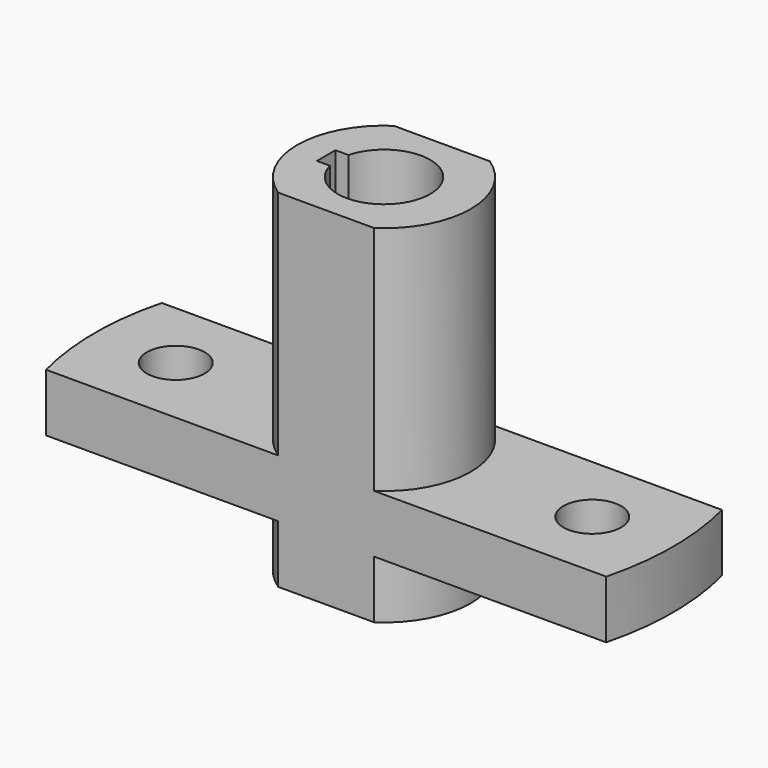
from build123d import *

# Parameters (mm, degrees)
F1_DEPTH = 50
F2_DEPTH = 10
F0_R     = 5
F3_DEPTH = 10


with BuildPart() as f1:
    # F0 (on Top) → F1 (new body)
    with BuildSketch(Plane.XY):
        with BuildLine():
            Line((8.291562, 12.5), (0, 12.5))
            Line((0, 12.5), (-8.291562, 12.5))
            ThreePointArc((-8.291562, 12.5), (-15, 0), (-8.291562, -12.5))
            Line((-8.291562, -12.5), (0, -12.5))
            Line((0, -12.5), (8.291562, -12.5))
            ThreePointArc((8.291562, -12.5), (15, 0), (8.291562, 12.5))
        make_face()
        with BuildLine():
            ThreePointArc((-7.745967, 2), (8, 0), (-7.745967, -2))
            Line((-7.745967, -2), (-10, -2))
            Line((-10, -2), (-10, 2))
            Line((-10, 2), (-7.745967, 2))
        make_face(mode=Mode.SUBTRACT)
    extrude(amount=F1_DEPTH)

    # F0 (on Top) → F2 (join)
    with BuildSketch(Plane.XY):
        with BuildLine():
            Line((8.291562, 12.5), (0, 12.5))
            Line((0, 12.5), (-8.291562, 12.5))
            ThreePointArc((-8.291562, 12.5), (-15, 0), (-8.291562, -12.5))
            Line((-8.291562, -12.5), (0, -12.5))
            Line((0, -12.5), (8.291562, -12.5))
            ThreePointArc((8.291562, -12.5), (15, 0), (8.291562, 12.5))
        make_face()
        with BuildLine():
            ThreePointArc((-7.745967, 2), (8, 0), (-7.745967, -2))
            Line((-7.745967, -2), (-10, -2))
            Line((-10, -2), (-10, 2))
            Line((-10, 2), (-7.745967, 2))
        make_face(mode=Mode.SUBTRACT)
    extrude(amount=-F2_DEPTH)

    # F0 (on Top) → F3 (join)
    with BuildSketch(Plane.XY):
        with BuildLine():
            ThreePointArc((-8.291562, -12.5), (-15, 0), (-8.291562, 12.5))
            Line((-8.291562, 12.5), (-48.412292, 12.5))
            ThreePointArc((-48.412292, 12.5), (-50, 0), (-48.412292, -12.5))
            Line((-48.412292, -12.5), (-8.291562, -12.5))
        make_face()
        with Locations((-36, 0)):
            Circle(F0_R, mode=Mode.SUBTRACT)
        with BuildLine():
            Line((48.412292, 12.5), (8.291562, 12.5))
            ThreePointArc((8.291562, 12.5), (15, 0), (8.291562, -12.5))
            Line((8.291562, -12.5), (48.412292, -12.5))
            ThreePointArc((48.412292, -12.5), (50, 0), (48.412292, 12.5))
        make_face()
        with Locations((36, 0)):
            Circle(F0_R, mode=Mode.SUBTRACT)
    extrude(amount=F3_DEPTH)


solid = f1.part
